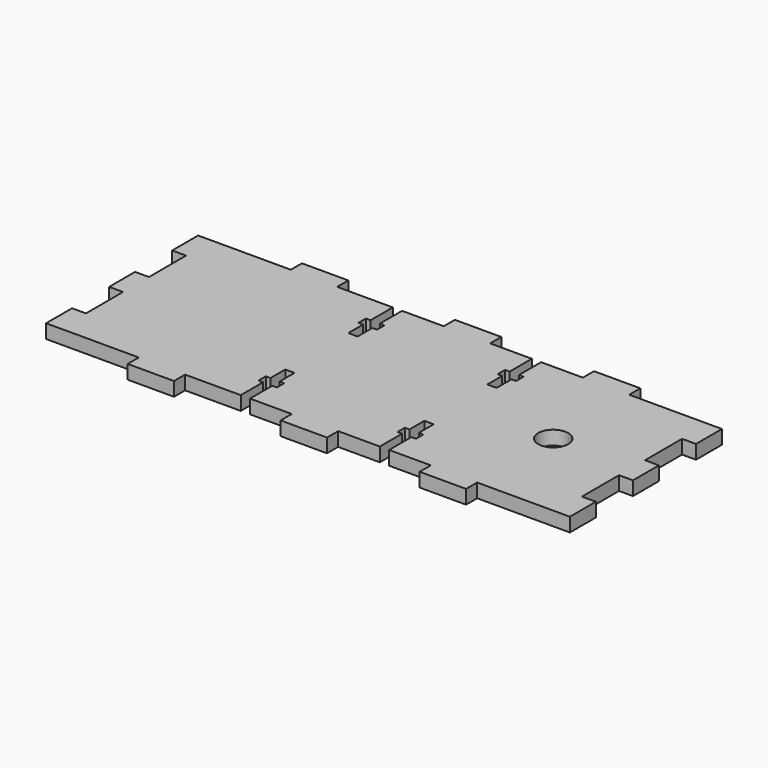
from build123d import *

# Parameters (mm, degrees)
F0_R     = 3.25
F1_DEPTH = 3


with BuildPart() as f1:
    # F0 (on Top) → F1 (new body)
    with BuildSketch(Plane.XY):
        Polygon((35.080297, -54.23167), (55.080297, -54.23167), (55.080297, -47.23167), (52.080297, -47.23167), (52.080297, -37.23167), (55.080297, -37.23167), (55.080297, -30.23167), (52.080297, -30.23167), (52.080297, -20.23167), (55.080297, -20.23167), (55.080297, -13.23167), (35.080297, -13.23167), (35.080297, -10.23167), (25.080297, -10.23167), (25.080297, -13.23167), (16.080297, -13.23167), (16.080297, -19.23167), (17.080297, -19.23167), (17.080297, -21.23167), (16.080297, -21.23167), (16.080297, -25.23167), (14.080297, -25.23167), (14.080297, -21.23167), (13.080297, -21.23167), (13.080297, -19.23167), (14.080297, -19.23167), (14.080297, -13.23167), (5.080297, -13.23167), (5.080297, -10.23167), (-4.919703, -10.23167), (-4.919703, -13.23167), (-13.919703, -13.23167), (-13.919703, -19.23167), (-12.919703, -19.23167), (-12.919703, -21.23167), (-13.919703, -21.23167), (-13.919703, -25.23167), (-15.919703, -25.23167), (-15.919703, -21.23167), (-16.919703, -21.23167), (-16.919703, -19.23167), (-15.919703, -19.23167), (-15.919703, -13.23167), (-27.919703, -13.23167), (-27.919703, -10.23167), (-37.919703, -10.23167), (-37.919703, -13.23167), (-57.919703, -13.23167), (-57.919703, -20.23167), (-54.919703, -20.23167), (-54.919703, -30.23167), (-57.919703, -30.23167), (-57.919703, -37.23167), (-54.919703, -37.23167), (-54.919703, -47.23167), (-57.919703, -47.23167), (-57.919703, -54.23167), (-37.919703, -54.23167), (-37.919703, -57.23167), (-27.919703, -57.23167), (-27.919703, -54.23167), (-15.919703, -54.23167), (-15.919703, -48.23167), (-16.919703, -48.23167), (-16.919703, -46.23167), (-15.919703, -46.23167), (-15.919703, -42.23167), (-13.919703, -42.23167), (-13.919703, -46.23167), (-12.919703, -46.23167), (-12.919703, -48.23167), (-13.919703, -48.23167), (-13.919703, -54.23167), (-4.919703, -54.23167), (-4.919703, -57.23167), (5.080297, -57.23167), (5.080297, -54.23167), (14.080297, -54.23167), (14.080297, -48.23167), (13.080297, -48.23167), (13.080297, -46.23167), (14.080297, -46.23167), (14.080297, -42.23167), (16.080297, -42.23167), (16.080297, -46.23167), (17.080297, -46.23167), (17.080297, -48.23167), (16.080297, -48.23167), (16.080297, -54.23167), (25.080297, -54.23167), (25.080297, -57.23167), (35.080297, -57.23167), align=None)
        with Locations((35.080297, -33.73167)):
            Circle(F0_R, mode=Mode.SUBTRACT)
    extrude(amount=F1_DEPTH)


solid = f1.part
